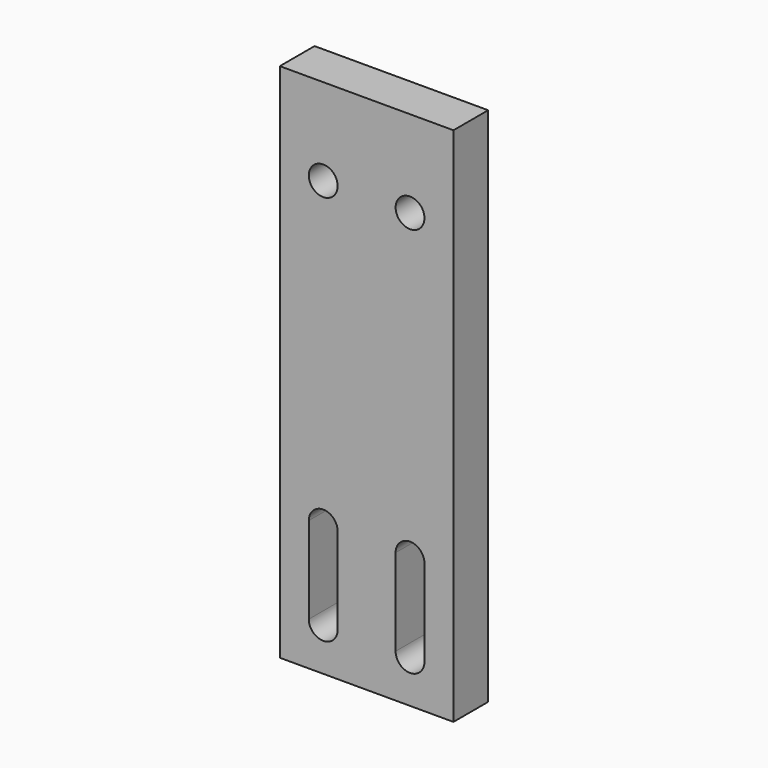
from build123d import *

# Parameters (mm, degrees)
F0_W     = 50.8
F0_H     = 152.4
F1_DEPTH = 12.7
F4_D     = 8.4328
F6_DEPTH = 12.701


with BuildPart() as f1:
    # F0 (on Front) → F1 (new body)
    with BuildSketch(Plane.XZ):
        with Locations((25.4, 76.2)):
            Rectangle(F0_W, F0_H)
    extrude(amount=F1_DEPTH)

    # F4 (through all)
    with Locations(Plane.XZ.offset(12.7)):
        with Locations((12.7, 127), (38.1, 127)):
            Hole(F4_D / 2)

    # F5 (on face) → F6 (cut, through all)
    with BuildSketch(Plane.XZ.offset(12.7)):
        with BuildLine():
            Line((16.9164, 12.7), (16.9164, 38.1))
            ThreePointArc((16.9164, 38.1), (12.7, 42.3164), (8.4836, 38.1))
            Line((8.4836, 38.1), (8.4836, 12.7))
            ThreePointArc((8.4836, 12.7), (12.7, 8.4836), (16.9164, 12.7))
        make_face()
        with BuildLine():
            Line((42.3164, 12.7), (42.3164, 38.1))
            ThreePointArc((42.3164, 38.1), (38.1, 42.3164), (33.8836, 38.1))
            Line((33.8836, 38.1), (33.8836, 12.7))
            ThreePointArc((33.8836, 12.7), (38.1, 8.4836), (42.3164, 12.7))
        make_face()
    extrude(amount=-F6_DEPTH, mode=Mode.SUBTRACT)


solid = f1.part
